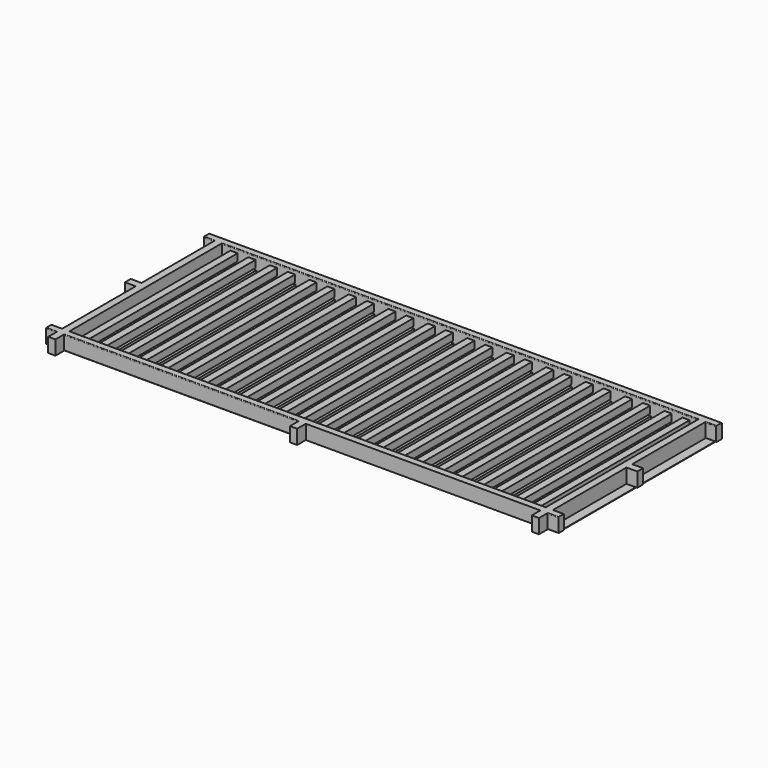
from build123d import *

# Parameters (mm, degrees)
F0_W          = 75
F0_H          = 50
F0_W_2        = 50
F0_W_3        = 3320
F0_H_2        = 75
F1_DEPTH      = 75
F1_DEPTH_BACK = 25
F2_R          = 5
F3_W          = 50
F3_H          = 1325
F4_DEPTH      = 50
F6_START      = 6
F5_W          = 200
F5_H          = 1305
F6_DEPTH      = 19
F7_W          = 85
F7_H          = 677.5
F8_DEPTH      = 3


with BuildPart() as f1:
    # F0 (on Top) → F1 (new body, two sides)
    with BuildSketch(Plane.XY) as f1_sk:
        with Locations((37.5, 1475)):
            Rectangle(F0_W, F0_H)
        with Locations((100, 1475)):
            Rectangle(F0_W_2, F0_H)
        with Locations((1785, 1475)):
            Rectangle(F0_W_3, F0_H)
        Polygon((125, 1450), (75, 1450), (75, 812.5), (75, 762.5), (75, 125), (125, 125), align=None)
        with Locations((3470, 1475)):
            Rectangle(F0_W_2, F0_H)
        with Locations((37.5, 787.5)):
            Rectangle(F0_W, F0_H)
        with Locations((3532.5, 1475)):
            Rectangle(F0_W, F0_H)
        Polygon((3495, 1450), (3445, 1450), (3445, 125), (3495, 125), (3495, 762.5), (3495, 812.5), align=None)
        with Locations((100, 100)):
            Rectangle(F0_W_2, F0_H)
        Polygon((3445, 125), (125, 125), (125, 75), (1760, 75), (1810, 75), (3445, 75), align=None)
        with Locations((3470, 100)):
            Rectangle(F0_W_2, F0_H)
        with Locations((37.5, 100)):
            Rectangle(F0_W, F0_H)
        with Locations((100, 37.5)):
            Rectangle(F0_W_2, F0_H_2)
        with Locations((3532.5, 787.5)):
            Rectangle(F0_W, F0_H)
        with Locations((3532.5, 100)):
            Rectangle(F0_W, F0_H)
        with Locations((3470, 37.5)):
            Rectangle(F0_W_2, F0_H_2)
        with Locations((1785, 37.5)):
            Rectangle(F0_W_2, F0_H_2)
    extrude(amount=F1_DEPTH)
    extrude(f1_sk.sketch, amount=-F1_DEPTH_BACK)

    # F2
    f2_edges = [f1.edges().sort_by_distance(p)[0] for p in [
        (1785, 1450, 75),
        (1785, 1500, 75),
        (1785, 125, 75),
        (942.5, 75, 75),
        (37.5, 75, 75),
        (37.5, 125, 75),
        (3532.5, 125, 75),
        (3532.5, 75, 75),
        (3532.5, 1450, 75),
        (37.5, 1450, 75),
        (1785, 1500, -25),
        (1785, 1450, -25),
        (3532.5, 1450, -25),
        (3532.5, 75, -25),
        (3532.5, 125, -25),
        (1785, 125, -25),
        (942.5, 75, -25),
        (37.5, 125, -25),
        (37.5, 75, -25),
        (37.5, 1450, -25),
    ]]
    fillet(f2_edges, radius=F2_R)

    # F7 (on face) → F8 (join)
    with BuildSketch(Plane(origin=(0, 0, -25), x_dir=(1, 0, 0), z_dir=(0, 0, -1))):
        with Locations((3517.5, -1131.25)):
            Rectangle(F7_W, F7_H)
        with Locations((3517.5, -443.75)):
            Rectangle(F7_W, F7_H)
        with Locations((52.5, -1131.25)):
            Rectangle(F7_W, F7_H)
        with Locations((52.5, -443.75)):
            Rectangle(F7_W, F7_H)
    extrude(amount=F8_DEPTH)


with BuildPart() as f4:
    # F3 (on Top) → F4 (new body)
    with BuildSketch(Plane.XY):
        with Locations((210, 787.5)):
            Rectangle(F3_W, F3_H)
    extrude(amount=F4_DEPTH)


with BuildPart() as f4b:
    # F3 (on Top) → F4, piece 2 (new body)
    with BuildSketch(Plane.XY):
        with Locations((335, 787.5)):
            Rectangle(F3_W, F3_H)
    extrude(amount=F4_DEPTH)


with BuildPart() as f4c:
    # F3 (on Top) → F4, piece 3 (new body)
    with BuildSketch(Plane.XY):
        with Locations((610, 787.5)):
            Rectangle(F3_W, F3_H)
    extrude(amount=F4_DEPTH)


with BuildPart() as f4d:
    # F3 (on Top) → F4, piece 4 (new body)
    with BuildSketch(Plane.XY):
        with Locations((485, 787.5)):
            Rectangle(F3_W, F3_H)
    extrude(amount=F4_DEPTH)


with BuildPart() as f4e:
    # F3 (on Top) → F4, piece 5 (new body)
    with BuildSketch(Plane.XY):
        with Locations((885, 787.5)):
            Rectangle(F3_W, F3_H)
    extrude(amount=F4_DEPTH)


with BuildPart() as f4f:
    # F3 (on Top) → F4, piece 6 (new body)
    with BuildSketch(Plane.XY):
        with Locations((760, 787.5)):
            Rectangle(F3_W, F3_H)
    extrude(amount=F4_DEPTH)


with BuildPart() as f4g:
    # F3 (on Top) → F4, piece 7 (new body)
    with BuildSketch(Plane.XY):
        with Locations((1160, 787.5)):
            Rectangle(F3_W, F3_H)
    extrude(amount=F4_DEPTH)


with BuildPart() as f4h:
    # F3 (on Top) → F4, piece 8 (new body)
    with BuildSketch(Plane.XY):
        with Locations((1035, 787.5)):
            Rectangle(F3_W, F3_H)
    extrude(amount=F4_DEPTH)


with BuildPart() as f4i:
    # F3 (on Top) → F4, piece 9 (new body)
    with BuildSketch(Plane.XY):
        with Locations((1435, 787.5)):
            Rectangle(F3_W, F3_H)
    extrude(amount=F4_DEPTH)


with BuildPart() as f4j:
    # F3 (on Top) → F4, piece 10 (new body)
    with BuildSketch(Plane.XY):
        with Locations((1310, 787.5)):
            Rectangle(F3_W, F3_H)
    extrude(amount=F4_DEPTH)


with BuildPart() as f4k:
    # F3 (on Top) → F4, piece 11 (new body)
    with BuildSketch(Plane.XY):
        with Locations((1710, 787.5)):
            Rectangle(F3_W, F3_H)
    extrude(amount=F4_DEPTH)


with BuildPart() as f4l:
    # F3 (on Top) → F4, piece 12 (new body)
    with BuildSketch(Plane.XY):
        with Locations((1585, 787.5)):
            Rectangle(F3_W, F3_H)
    extrude(amount=F4_DEPTH)


with BuildPart() as f4m:
    # F3 (on Top) → F4, piece 13 (new body)
    with BuildSketch(Plane.XY):
        with Locations((1985, 787.5)):
            Rectangle(F3_W, F3_H)
    extrude(amount=F4_DEPTH)


with BuildPart() as f4n:
    # F3 (on Top) → F4, piece 14 (new body)
    with BuildSketch(Plane.XY):
        with Locations((1860, 787.5)):
            Rectangle(F3_W, F3_H)
    extrude(amount=F4_DEPTH)


with BuildPart() as f4o:
    # F3 (on Top) → F4, piece 15 (new body)
    with BuildSketch(Plane.XY):
        with Locations((2260, 787.5)):
            Rectangle(F3_W, F3_H)
    extrude(amount=F4_DEPTH)


with BuildPart() as f4p:
    # F3 (on Top) → F4, piece 16 (new body)
    with BuildSketch(Plane.XY):
        with Locations((2135, 787.5)):
            Rectangle(F3_W, F3_H)
    extrude(amount=F4_DEPTH)


with BuildPart() as f4q:
    # F3 (on Top) → F4, piece 17 (new body)
    with BuildSketch(Plane.XY):
        with Locations((2535, 787.5)):
            Rectangle(F3_W, F3_H)
    extrude(amount=F4_DEPTH)


with BuildPart() as f4r:
    # F3 (on Top) → F4, piece 18 (new body)
    with BuildSketch(Plane.XY):
        with Locations((2410, 787.5)):
            Rectangle(F3_W, F3_H)
    extrude(amount=F4_DEPTH)


with BuildPart() as f4s:
    # F3 (on Top) → F4, piece 19 (new body)
    with BuildSketch(Plane.XY):
        with Locations((2810, 787.5)):
            Rectangle(F3_W, F3_H)
    extrude(amount=F4_DEPTH)


with BuildPart() as f4t:
    # F3 (on Top) → F4, piece 20 (new body)
    with BuildSketch(Plane.XY):
        with Locations((2685, 787.5)):
            Rectangle(F3_W, F3_H)
    extrude(amount=F4_DEPTH)


with BuildPart() as f4u:
    # F3 (on Top) → F4, piece 21 (new body)
    with BuildSketch(Plane.XY):
        with Locations((3085, 787.5)):
            Rectangle(F3_W, F3_H)
    extrude(amount=F4_DEPTH)


with BuildPart() as f4v:
    # F3 (on Top) → F4, piece 22 (new body)
    with BuildSketch(Plane.XY):
        with Locations((2960, 787.5)):
            Rectangle(F3_W, F3_H)
    extrude(amount=F4_DEPTH)


with BuildPart() as f4w:
    # F3 (on Top) → F4, piece 23 (new body)
    with BuildSketch(Plane.XY):
        with Locations((3360, 787.5)):
            Rectangle(F3_W, F3_H)
    extrude(amount=F4_DEPTH)


with BuildPart() as f4x:
    # F3 (on Top) → F4, piece 24 (new body)
    with BuildSketch(Plane.XY):
        with Locations((3235, 787.5)):
            Rectangle(F3_W, F3_H)
    extrude(amount=F4_DEPTH)


with BuildPart() as f6:
    # F5 (on face) → F6 (new body)
    with BuildSketch(Plane(origin=(0, 0, 0), x_dir=(1, 0, 0), z_dir=(0, 0, -1)).offset(F6_START)):
        with Locations((3297.7, -787.5)):
            Rectangle(F5_W, F5_H)
    extrude(amount=F6_DEPTH)


with BuildPart() as f6b:
    # F5 (on face) → F6, piece 2 (new body)
    with BuildSketch(Plane(origin=(0, 0, 0), x_dir=(1, 0, 0), z_dir=(0, 0, -1)).offset(F6_START)):
        with Locations((3022.7, -787.5)):
            Rectangle(F5_W, F5_H)
    extrude(amount=F6_DEPTH)


with BuildPart() as f6c:
    # F5 (on face) → F6, piece 3 (new body)
    with BuildSketch(Plane(origin=(0, 0, 0), x_dir=(1, 0, 0), z_dir=(0, 0, -1)).offset(F6_START)):
        with Locations((2747.7, -787.5)):
            Rectangle(F5_W, F5_H)
    extrude(amount=F6_DEPTH)


with BuildPart() as f6d:
    # F5 (on face) → F6, piece 4 (new body)
    with BuildSketch(Plane(origin=(0, 0, 0), x_dir=(1, 0, 0), z_dir=(0, 0, -1)).offset(F6_START)):
        with Locations((2472.7, -787.5)):
            Rectangle(F5_W, F5_H)
    extrude(amount=F6_DEPTH)


with BuildPart() as f6e:
    # F5 (on face) → F6, piece 5 (new body)
    with BuildSketch(Plane(origin=(0, 0, 0), x_dir=(1, 0, 0), z_dir=(0, 0, -1)).offset(F6_START)):
        with Locations((2197.7, -787.5)):
            Rectangle(F5_W, F5_H)
    extrude(amount=F6_DEPTH)


with BuildPart() as f6f:
    # F5 (on face) → F6, piece 6 (new body)
    with BuildSketch(Plane(origin=(0, 0, 0), x_dir=(1, 0, 0), z_dir=(0, 0, -1)).offset(F6_START)):
        with Locations((1922.7, -787.5)):
            Rectangle(F5_W, F5_H)
    extrude(amount=F6_DEPTH)


with BuildPart() as f6g:
    # F5 (on face) → F6, piece 7 (new body)
    with BuildSketch(Plane(origin=(0, 0, 0), x_dir=(1, 0, 0), z_dir=(0, 0, -1)).offset(F6_START)):
        with Locations((1647.7, -787.5)):
            Rectangle(F5_W, F5_H)
    extrude(amount=F6_DEPTH)


with BuildPart() as f6h:
    # F5 (on face) → F6, piece 8 (new body)
    with BuildSketch(Plane(origin=(0, 0, 0), x_dir=(1, 0, 0), z_dir=(0, 0, -1)).offset(F6_START)):
        with Locations((1372.7, -787.5)):
            Rectangle(F5_W, F5_H)
    extrude(amount=F6_DEPTH)


with BuildPart() as f6i:
    # F5 (on face) → F6, piece 9 (new body)
    with BuildSketch(Plane(origin=(0, 0, 0), x_dir=(1, 0, 0), z_dir=(0, 0, -1)).offset(F6_START)):
        with Locations((1097.7, -787.5)):
            Rectangle(F5_W, F5_H)
    extrude(amount=F6_DEPTH)


with BuildPart() as f6j:
    # F5 (on face) → F6, piece 10 (new body)
    with BuildSketch(Plane(origin=(0, 0, 0), x_dir=(1, 0, 0), z_dir=(0, 0, -1)).offset(F6_START)):
        with Locations((822.7, -787.5)):
            Rectangle(F5_W, F5_H)
    extrude(amount=F6_DEPTH)


with BuildPart() as f6k:
    # F5 (on face) → F6, piece 11 (new body)
    with BuildSketch(Plane(origin=(0, 0, 0), x_dir=(1, 0, 0), z_dir=(0, 0, -1)).offset(F6_START)):
        with Locations((547.7, -787.5)):
            Rectangle(F5_W, F5_H)
    extrude(amount=F6_DEPTH)


with BuildPart() as f6l:
    # F5 (on face) → F6, piece 12 (new body)
    with BuildSketch(Plane(origin=(0, 0, 0), x_dir=(1, 0, 0), z_dir=(0, 0, -1)).offset(F6_START)):
        with Locations((272.7, -787.5)):
            Rectangle(F5_W, F5_H)
    extrude(amount=F6_DEPTH)


solid = Compound([f1.part, f4.part, f4b.part, f4c.part, f4d.part, f4e.part, f4f.part, f4g.part, f4h.part, f4i.part, f4j.part, f4k.part, f4l.part, f4m.part, f4n.part, f4o.part, f4p.part, f4q.part, f4r.part, f4s.part, f4t.part, f4u.part, f4v.part, f4w.part, f4x.part, f6.part, f6b.part, f6c.part, f6d.part, f6e.part, f6f.part, f6g.part, f6h.part, f6i.part, f6j.part, f6k.part, f6l.part])
